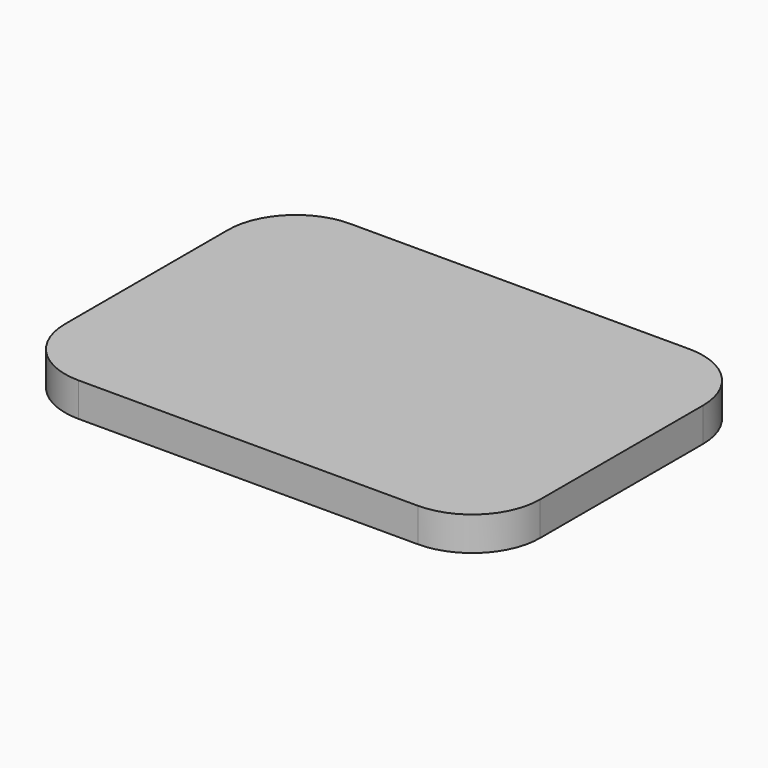
from build123d import *

# Parameters (mm, degrees)
F1_DEPTH = 12.7


with BuildPart() as f1:
    # F0 (on Top) → F1 (new body)
    with BuildSketch(Plane.XY):
        with BuildLine():
            Line((0, -38.611692), (0, 0))
            Line((0, 0), (0, 37.588308))
            ThreePointArc((0, 37.588308), (-7.439488, 55.548821), (-25.4, 62.988308))
            Line((-25.4, 62.988308), (-152.4, 62.988308))
            ThreePointArc((-152.4, 62.988308), (-170.360512, 55.548821), (-177.8, 37.588308))
            Line((-177.8, 37.588308), (-177.8, -38.611692))
            ThreePointArc((-177.8, -38.611692), (-170.360512, -56.572204), (-152.4, -64.011692))
            Line((-152.4, -64.011692), (-25.4, -64.011692))
            ThreePointArc((-25.4, -64.011692), (-7.439488, -56.572204), (0, -38.611692))
        make_face()
    extrude(amount=F1_DEPTH)


solid = f1.part
